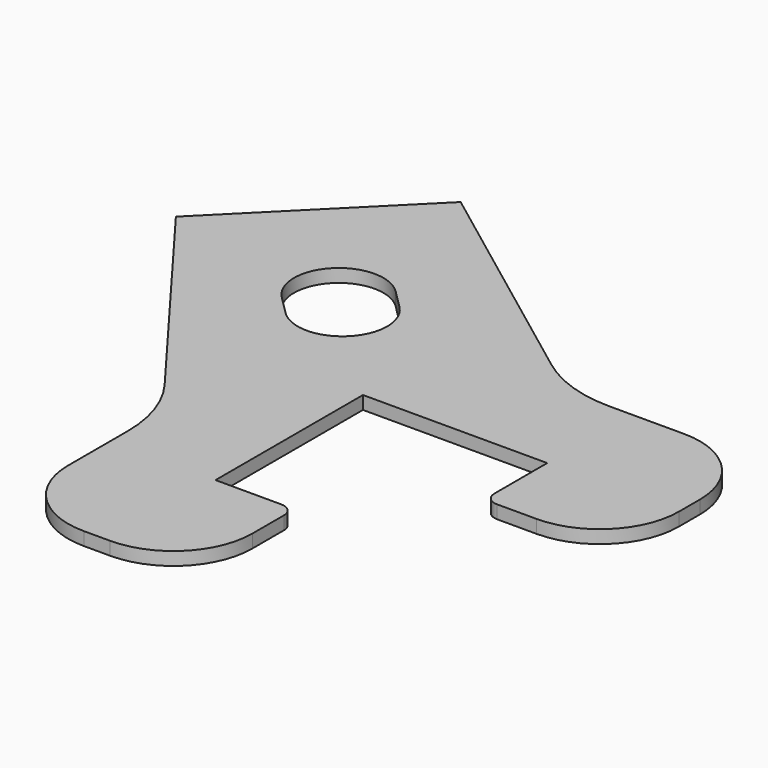
from build123d import *

# Parameters (mm, degrees)
F1_DEPTH = 0.5


with BuildPart() as f1:
    # F0 (on Top) → F1 (new body)
    with BuildSketch(Plane.XY):
        with BuildLine():
            Line((3.166242, 5.001044), (-5.480078, 11.490485))
            Line((-5.480078, 11.490485), (-11.490485, 5.480078))
            Line((-11.490485, 5.480078), (-5.001044, -3.166242))
            ThreePointArc((-5.001044, -3.166242), (-4.256859, -4.585669), (-4, -6.167633))
            Line((-4, -6.167633), (-4, -9))
            ThreePointArc((-4, -9), (-3.12132, -11.12132), (-1, -12))
            Line((-1, -12), (0, -12))
            ThreePointArc((0, -12), (2.12132, -11.12132), (3, -9))
            Line((3, -9), (3, -7.5))
            ThreePointArc((3, -7.5), (2.853553, -7.146447), (2.5, -7))
            Line((2.5, -7), (0, -7))
            Line((0, -7), (0, 0))
            Line((0, 0), (7, 0))
            Line((7, 0), (7, -2.5))
            ThreePointArc((7, -2.5), (7.146447, -2.853553), (7.5, -3))
            Line((7.5, -3), (9, -3))
            ThreePointArc((9, -3), (11.12132, -2.12132), (12, 0))
            Line((12, 0), (12, 1))
            ThreePointArc((12, 1), (11.12132, 3.12132), (9, 4))
            Line((9, 4), (6.167633, 4))
            ThreePointArc((6.167633, 4), (4.585669, 4.256859), (3.166242, 5.001044))
        make_face()
        with BuildLine():
            ThreePointArc((-2.687006, 5.091169), (-2.687006, 2.687006), (-5.091169, 2.687006))
            Line((-5.091169, 2.687006), (-5.798276, 3.394113))
            ThreePointArc((-5.798276, 3.394113), (-5.798276, 5.798276), (-3.394113, 5.798276))
            Line((-3.394113, 5.798276), (-2.687006, 5.091169))
        make_face(mode=Mode.SUBTRACT)
    extrude(amount=F1_DEPTH)


solid = f1.part
